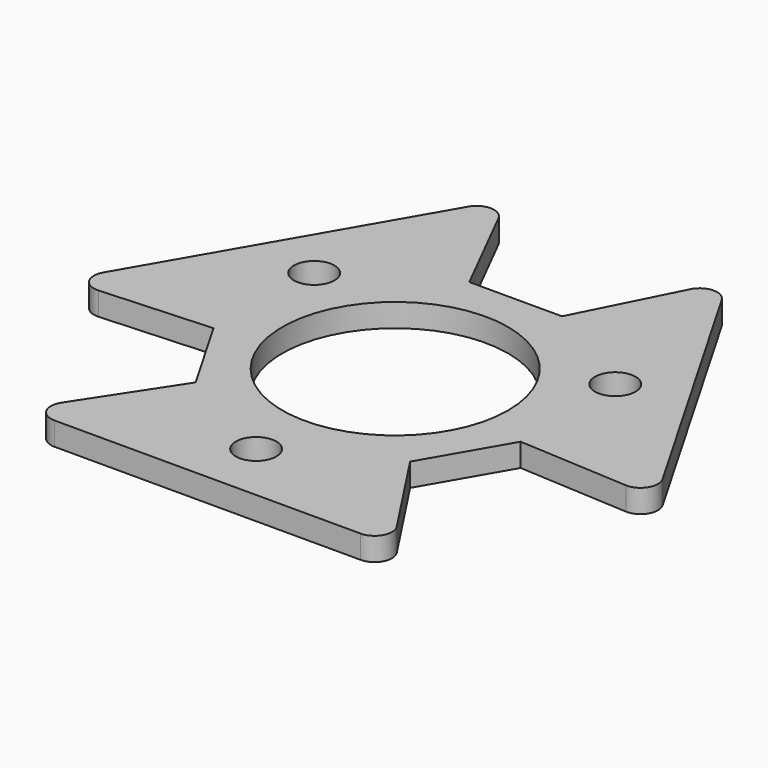
from build123d import *

# Parameters (mm, degrees)
F0_R     = 3.5
F0_R_2   = 19.5
F1_DEPTH = 2
F2_R     = 3


with BuildPart() as f1:
    # F0 (on Top) → F1 (new body, symmetric)
    with BuildSketch(Plane.XY):
        Polygon((-8, 26), (-19.074029, 47.962813), (-51.074029, -7.462813), (-26.51666, -6.071797), (-18.51666, -19.928203), (-32, -40.5), (32, -40.5), (18.51666, -19.928203), (26.51666, -6.071797), (51.074029, -7.462813), (19.074029, 47.962813), (8, 26), align=None)
        with Locations((0, -30.02)):
            Circle(F0_R, mode=Mode.SUBTRACT)
        Circle(F0_R_2, mode=Mode.SUBTRACT)
        with Locations((-25.998083, 15.01)):
            Circle(F0_R, mode=Mode.SUBTRACT)
        with Locations((25.998083, 15.01)):
            Circle(F0_R, mode=Mode.SUBTRACT)
    extrude(amount=F1_DEPTH, both=True)

    # F2
    f2_edges = [f1.edges().sort_by_distance(p)[0] for p in [
        (51.074029, -7.462813, 0),
        (32, -40.5, 0),
        (-19.074029, 47.962813, 0),
        (19.074029, 47.962813, 0),
        (-51.074029, -7.462813, 0),
        (-32, -40.5, 0),
    ]]
    fillet(f2_edges, radius=F2_R)


solid = f1.part
